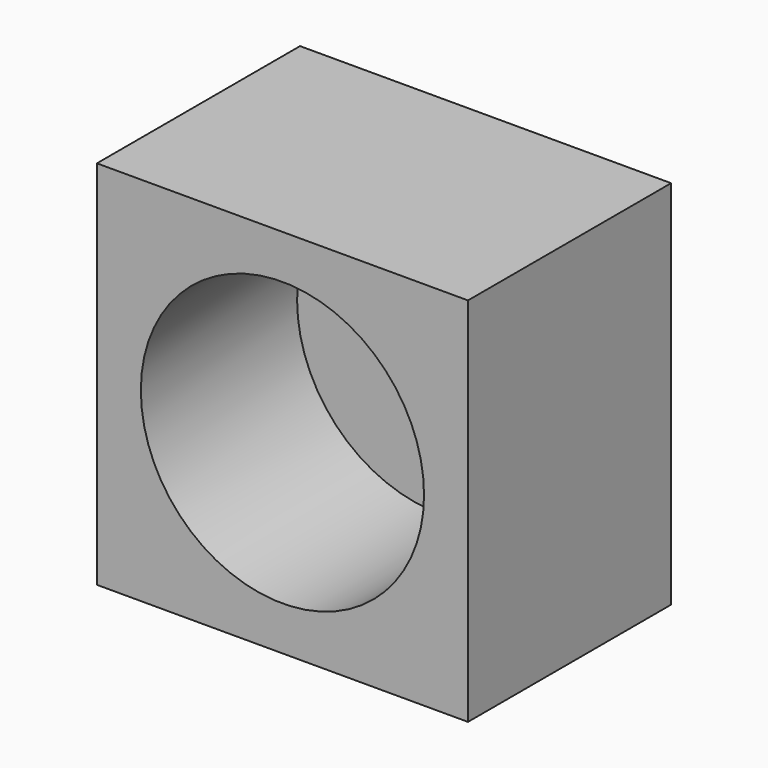
from build123d import *

# Parameters (mm, degrees)
SKETCH020_W       = 7.6
SKETCH020_H       = 7.6
PAD003_DEPTH      = 6
SKETCH022_R       = 2.8
PAD004_DEPTH      = 3
CYLINDER001_R     = 2.9
CYLINDER001_DEPTH = 10
CHAMFER_SIZE      = 0.8


with BuildPart() as part:
    # Sketch020 → Pad003 (new body)
    with BuildSketch(Plane.XZ):
        Rectangle(SKETCH020_W, SKETCH020_H)
    extrude(amount=PAD003_DEPTH)

    # Sketch022 → Pad004 (join)
    with BuildSketch(Plane.XZ.offset(6)):
        Circle(SKETCH022_R)
    extrude(amount=PAD004_DEPTH)

    # Cylinder001 → Cylinder001 (cut)
    with BuildSketch(Plane.XZ.offset(2)):
        Circle(CYLINDER001_R)
    extrude(amount=CYLINDER001_DEPTH, mode=Mode.SUBTRACT)

    # Chamfer
    chamfer_edges = [part.edges().sort_by_distance(p)[0] for p in [
        (3.8, 0, 0),
        (0, 0, -3.8),
        (0, 0, 3.8),
        (-3.8, 0, 0),
    ]]
    chamfer(chamfer_edges, length=CHAMFER_SIZE)


solid = part.part
